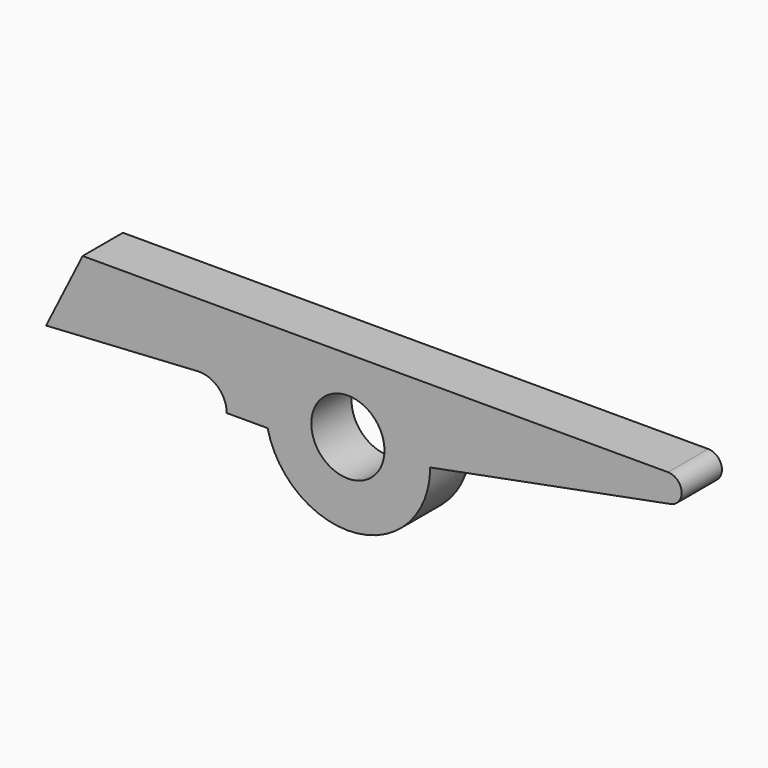
from build123d import *

# Parameters (mm, degrees)
SKETCH_R  = 4
PAD_DEPTH = 5.5


with BuildPart() as part:
    # Sketch → Pad (new body)
    with BuildSketch(Plane.XZ):
        with BuildLine():
            Line((-29, 8), (35, 8))
            ThreePointArc((35.281785, 5.026705), (36.493309, 6.641524), (35, 8))
            Line((9, 0), (35.281785, 5.026705))
            ThreePointArc((-8.774964, -2), (1.00631, -8.943564), (9, 0))
            Line((-8.774964, -2), (-13.249792, -2))
            ThreePointArc((-13.249792, -2), (-14.193003, 0.183946), (-16.429538, 0.99461))
            Line((-33, 0), (-16.429538, 0.99461))
            Line((-29, 8), (-33, 0))
        make_face()
        Circle(SKETCH_R, mode=Mode.SUBTRACT)
    extrude(amount=PAD_DEPTH)


solid = part.part
